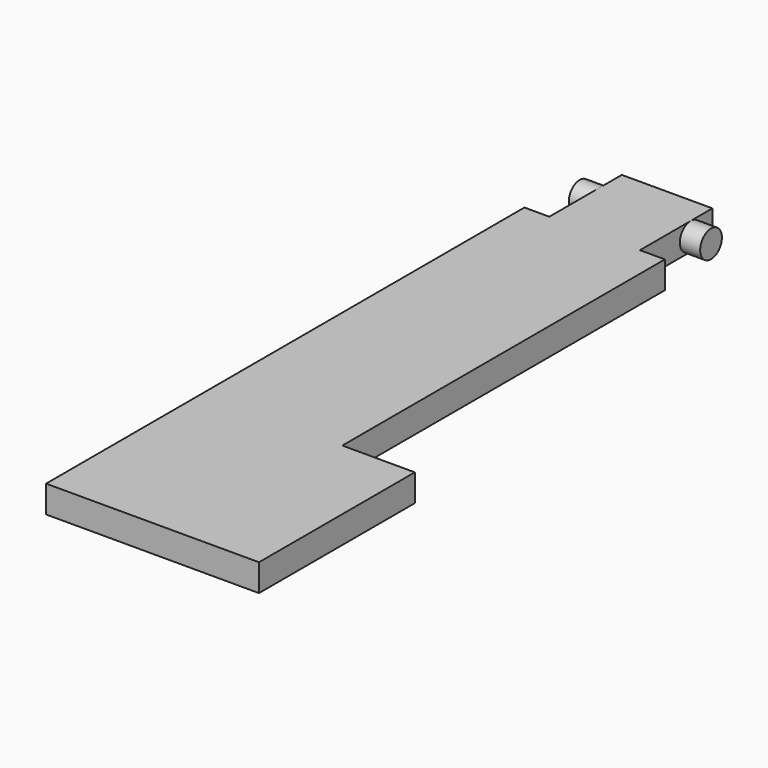
from build123d import *

# Parameters (mm, degrees)
PAD_DEPTH    = 3
SKETCH001_R  = 1.5
PAD001_DEPTH = 7.25
SKETCH002_R  = 2.1
POCKET_DEPTH = 2
SKETCH003_R  = 3
PAD002_DEPTH = 3
FILLET_R     = 2.75


with BuildPart() as part:
    # Sketch → Pad (new body)
    with BuildSketch(Plane.XY):
        Polygon((-7.75, 33), (-7.75, -33), (15.75, -33), (15.75, -11.5), (7.75, -11.5), (7.75, 33), (5, 33), (5, 43), (-5, 43), (-5, 33), align=None)
    extrude(amount=PAD_DEPTH)

    # Sketch001 → Pad001 (join, symmetric)
    with BuildSketch(Plane.YZ):
        with Locations((40, 1.5)):
            Circle(SKETCH001_R)
    extrude(amount=PAD001_DEPTH, both=True)

    # Sketch002 (on Face4 of Pad001) → Pocket (cut)
    with BuildSketch(Plane(origin=(0, 0, 0), x_dir=(1, 0, 0), z_dir=(0, 0, -1))):
        with Locations((4, 23)):
            Circle(SKETCH002_R)
    extrude(amount=-POCKET_DEPTH, mode=Mode.SUBTRACT)

    # Sketch003 (on Face4 of Pocket) → Pad002 (join)
    with BuildSketch(Plane(origin=(0, 0, 0), x_dir=(1, 0, 0), z_dir=(0, 0, -1))):
        with Locations((0, -23)):
            Circle(SKETCH003_R)
    extrude(amount=PAD002_DEPTH)

    # Fillet
    fillet_edges = [part.edges().sort_by_distance(p)[0] for p in [
        (-3, 23, -3),
    ]]
    fillet(fillet_edges, radius=FILLET_R)


solid = part.part
